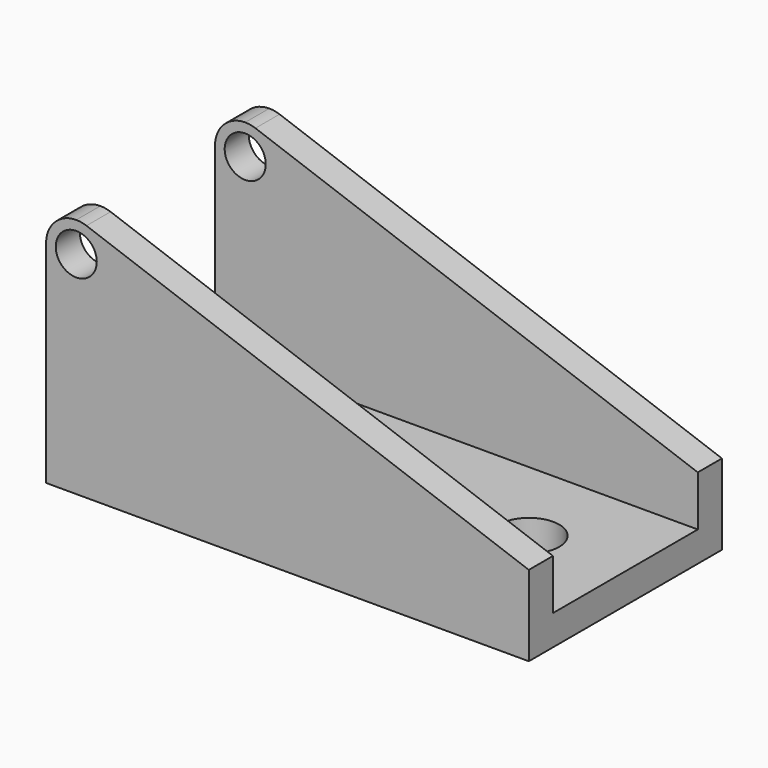
from build123d import *

# Parameters (mm, degrees)
F0_R     = 2.159
F1_DEPTH = 25.4
F3_DEPTH = 50.801
F4_R     = 3.175
F5_DEPTH = 25.4


with BuildPart() as f1:
    # F0 (on Front) → F1 (new body)
    with BuildSketch(Plane.XZ):
        with BuildLine():
            ThreePointArc((-21.150258, 12.512567), (-21.679518, 12.652791), (-22.225, 12.7))
            ThreePointArc((-22.225, 12.7), (-24.470064, 11.770064), (-25.4, 9.525))
            Line((-25.4, 9.525), (-25.4, -12.7))
            Line((-25.4, -12.7), (25.4, -12.7))
            Line((25.4, -12.7), (25.4, -4.233333))
            Line((25.4, -4.233333), (-21.150258, 12.512567))
        make_face()
        with Locations((-22.225, 9.525)):
            Circle(F0_R, mode=Mode.SUBTRACT)
    extrude(amount=F1_DEPTH)

    # F2 (on face) → F3 (cut, through all)
    with BuildSketch(Plane(origin=(-25.4, 0, 0), x_dir=(0, -1, 0), z_dir=(-1, 0, 0))):
        Polygon((3.175, 15.972704), (3.175, -9.525), (22.225, -9.525), (22.225, 16.476365), align=None)
    extrude(amount=-F3_DEPTH, mode=Mode.SUBTRACT)

    # F4 (on face) → F5 (cut)
    with BuildSketch(Plane.XY.offset(-9.525)):
        with Locations((-16.687769, -12.7)):
            Circle(F4_R)
        with Locations((15.263206, -12.7)):
            Circle(F4_R)
    extrude(amount=-F5_DEPTH, mode=Mode.SUBTRACT)


solid = f1.part
